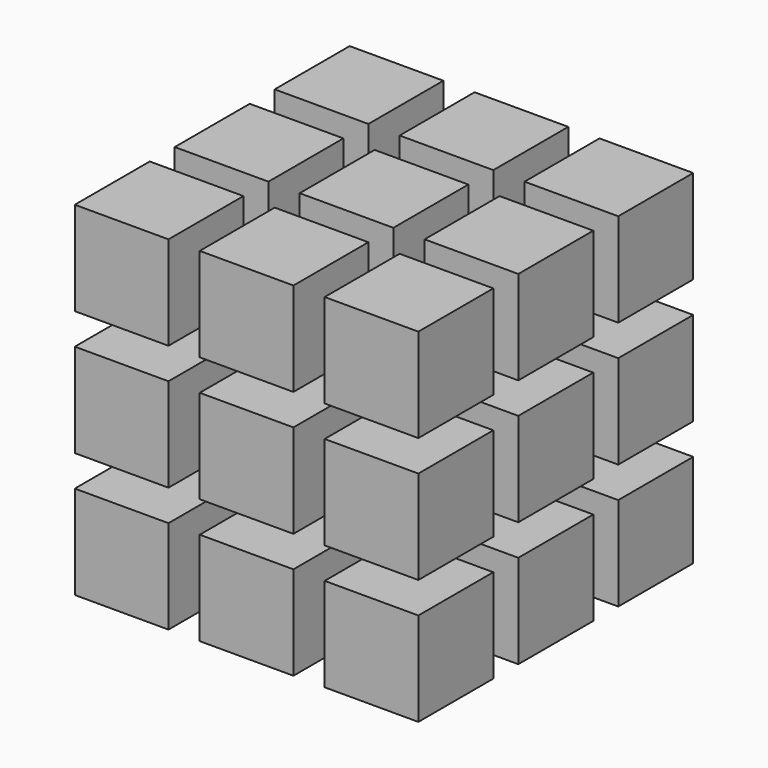
from build123d import *

# Parameters (mm, degrees)
F0_W      = 279.4
F0_H      = 279.4
F1_DEPTH  = 279.4
F2_W      = 25.4
F2_H      = 76.2
F2_H_2    = 25.4
F2_W_2    = 76.2
F3_DEPTH  = 279.4
F4_W      = 76.2
F4_H      = 25.4
F5_DEPTH  = 533.4
F6_W      = 76.2
F6_H      = 25.4
F7_DEPTH  = 533.4
F8_W      = 76.2
F8_H      = 25.4
F9_DEPTH  = 81838.8
F10_W     = 76.2
F10_H     = 25.4
F11_DEPTH = 1752.6
F12_W     = 76.2
F12_H     = 25.4
F13_DEPTH = 50876.2
F14_W     = 76.2
F14_H     = 25.4
F15_DEPTH = 10668
F16_W     = 76.2
F16_H     = 25.4
F17_DEPTH = 33959.8
F18_W     = 76.2
F18_H     = 25.4
F19_DEPTH = 132969
F20_W     = 76.2
F20_H     = 25.4
F21_DEPTH = 50850.8


with BuildPart() as f1:
    # F0 (on Top) → F1 (new body)
    with BuildSketch(Plane.XY):
        Rectangle(F0_W, F0_H)
    extrude(amount=F1_DEPTH)

    # F2 (on face) → F3 (cut)
    with BuildSketch(Plane.XY.offset(279.4)):
        with Locations((-50.8, 101.6)):
            Rectangle(F2_W, F2_H)
        with Locations((-50.8, 50.8)):
            Rectangle(F2_W, F2_H_2)
        with Locations((-101.6, 50.8)):
            Rectangle(F2_W_2, F2_H_2)
        with Locations((0, 50.8)):
            Rectangle(F2_W_2, F2_H_2)
        with Locations((-50.8, 0)):
            Rectangle(F2_W, F2_H)
        with Locations((50.8, 50.8)):
            Rectangle(F2_W, F2_H_2)
        with Locations((50.8, 101.6)):
            Rectangle(F2_W, F2_H)
        with Locations((-50.8, -50.8)):
            Rectangle(F2_W, F2_H_2)
        with Locations((-101.6, -50.8)):
            Rectangle(F2_W_2, F2_H_2)
        with Locations((0, -50.8)):
            Rectangle(F2_W_2, F2_H_2)
        with Locations((50.8, 0)):
            Rectangle(F2_W, F2_H)
        with Locations((101.6, 50.8)):
            Rectangle(F2_W_2, F2_H_2)
        with Locations((-50.8, -101.6)):
            Rectangle(F2_W, F2_H)
        with Locations((50.8, -50.8)):
            Rectangle(F2_W, F2_H_2)
        with Locations((50.8, -101.6)):
            Rectangle(F2_W, F2_H)
        with Locations((101.6, -50.8)):
            Rectangle(F2_W_2, F2_H_2)
    extrude(amount=-F3_DEPTH, mode=Mode.SUBTRACT)

    # F4 (on face) → F5 (cut)
    with BuildSketch(Plane(origin=(-139.7, 0, 0), x_dir=(0, -1, 0), z_dir=(-1, 0, 0))):
        with Locations((-101.6, 190.5)):
            Rectangle(F4_W, F4_H)
        with Locations((-101.6, 88.9)):
            Rectangle(F4_W, F4_H)
    extrude(amount=-F5_DEPTH, mode=Mode.SUBTRACT)

    # F6 (on face) → F7 (cut)
    with BuildSketch(Plane(origin=(-38.1, 0, 0), x_dir=(0, -1, 0), z_dir=(-1, 0, 0))):
        with Locations((-101.6, 190.5)):
            Rectangle(F6_W, F6_H)
        with Locations((-101.6, 88.9)):
            Rectangle(F6_W, F6_H)
    extrude(amount=-F7_DEPTH, mode=Mode.SUBTRACT)

    # F8 (on face) → F9 (cut)
    with BuildSketch(Plane(origin=(63.5, 0, 0), x_dir=(0, -1, 0), z_dir=(-1, 0, 0))):
        with Locations((-101.6, 190.5)):
            Rectangle(F8_W, F8_H)
        with Locations((-101.6, 88.9)):
            Rectangle(F8_W, F8_H)
    extrude(amount=-F9_DEPTH, mode=Mode.SUBTRACT)

    # F10 (on face) → F11 (cut)
    with BuildSketch(Plane(origin=(-139.7, 0, 0), x_dir=(0, -1, 0), z_dir=(-1, 0, 0))):
        with Locations((0, 190.5)):
            Rectangle(F10_W, F10_H)
        with Locations((0, 88.9)):
            Rectangle(F10_W, F10_H)
    extrude(amount=-F11_DEPTH, mode=Mode.SUBTRACT)

    # F12 (on face) → F13 (cut)
    with BuildSketch(Plane(origin=(-38.1, 0, 0), x_dir=(0, -1, 0), z_dir=(-1, 0, 0))):
        with Locations((0, 190.5)):
            Rectangle(F12_W, F12_H)
        with Locations((0, 88.9)):
            Rectangle(F12_W, F12_H)
    extrude(amount=-F13_DEPTH, mode=Mode.SUBTRACT)

    # F14 (on face) → F15 (cut)
    with BuildSketch(Plane(origin=(63.5, 0, 0), x_dir=(0, -1, 0), z_dir=(-1, 0, 0))):
        with Locations((0, 190.5)):
            Rectangle(F14_W, F14_H)
        with Locations((0, 88.9)):
            Rectangle(F14_W, F14_H)
    extrude(amount=-F15_DEPTH, mode=Mode.SUBTRACT)

    # F16 (on face) → F17 (cut)
    with BuildSketch(Plane(origin=(-139.7, 0, 0), x_dir=(0, -1, 0), z_dir=(-1, 0, 0))):
        with Locations((101.6, 190.5)):
            Rectangle(F16_W, F16_H)
        with Locations((101.6, 88.9)):
            Rectangle(F16_W, F16_H)
    extrude(amount=-F17_DEPTH, mode=Mode.SUBTRACT)

    # F18 (on face) → F19 (cut)
    with BuildSketch(Plane(origin=(-38.1, 0, 0), x_dir=(0, -1, 0), z_dir=(-1, 0, 0))):
        with Locations((101.6, 190.5)):
            Rectangle(F18_W, F18_H)
        with Locations((101.6, 88.9)):
            Rectangle(F18_W, F18_H)
    extrude(amount=-F19_DEPTH, mode=Mode.SUBTRACT)

    # F20 (on face) → F21 (cut)
    with BuildSketch(Plane(origin=(63.5, 0, 0), x_dir=(0, -1, 0), z_dir=(-1, 0, 0))):
        with Locations((101.6, 190.5)):
            Rectangle(F20_W, F20_H)
        with Locations((101.6, 88.9)):
            Rectangle(F20_W, F20_H)
    extrude(amount=-F21_DEPTH, mode=Mode.SUBTRACT)


solid = f1.part
